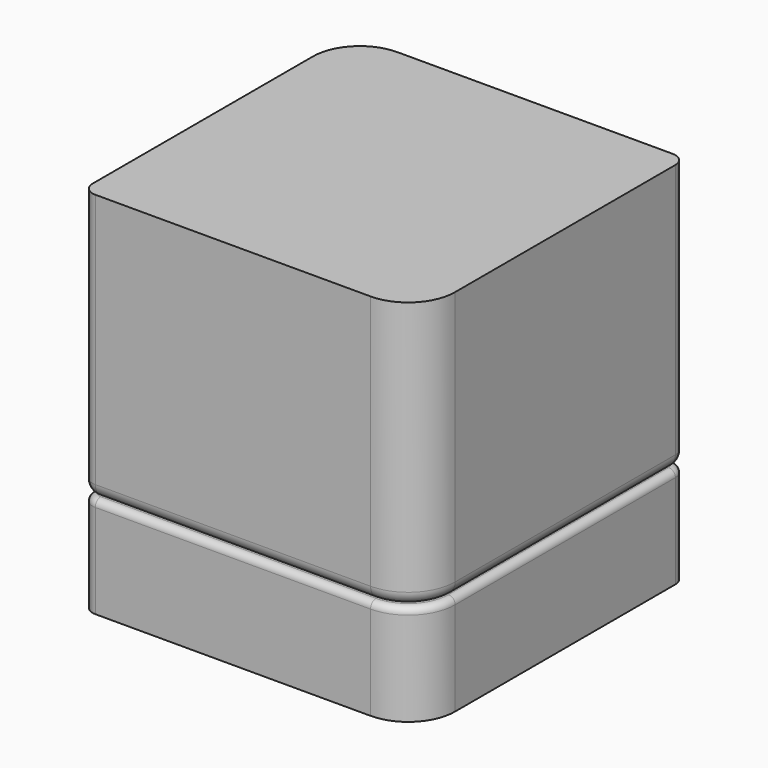
from build123d import *

# Parameters (mm, degrees)
F1_DEPTH = 15
F2_DEPTH = 40
F3_R     = 1
F4_R     = 2


with BuildPart() as f1:
    # F0 (on Top) → F1 (new body)
    with BuildSketch(Plane.XY):
        with BuildLine():
            ThreePointArc((25, 23), (24.4142135624, 24.4142135624), (23, 25))
            Line((23, 25), (-18, 25))
            ThreePointArc((-18, 25), (-22.9497474683, 22.9497474683), (-25, 18))
            Line((-25, 18), (-25, -23))
            ThreePointArc((-25, -23), (-24.4142135624, -24.4142135624), (-23, -25))
            Line((-23, -25), (18, -25))
            ThreePointArc((18, -25), (22.9497474683, -22.9497474683), (25, -18))
            Line((25, -18), (25, 23))
        make_face()
    extrude(amount=F1_DEPTH)


with BuildPart() as f2:
    # F2 (new): a face of the model
    f2_faces = [f1.part.faces().sort_by_distance(p)[0] for p in [
        (0, 0, 15),
    ]]
    extrude(f2_faces, amount=F2_DEPTH)

    # F4
    f4_edges = [f2.edges().sort_by_distance(p)[0] for p in [
        (-2.5, -25, 15),
        (22.949747, -22.949747, 15),
        (25, 2.5, 15),
    ]]
    fillet(f4_edges, radius=F4_R)


with BuildPart() as f1_1:
    add(f1.part)

    # F3
    f3_edges = [f1_1.edges().sort_by_distance(p)[0] for p in [
        (-2.5, -25, 15),
        (22.949747, -22.949747, 15),
    ]]
    fillet(f3_edges, radius=F3_R)


solid = Compound([f2.part, f1_1.part])
